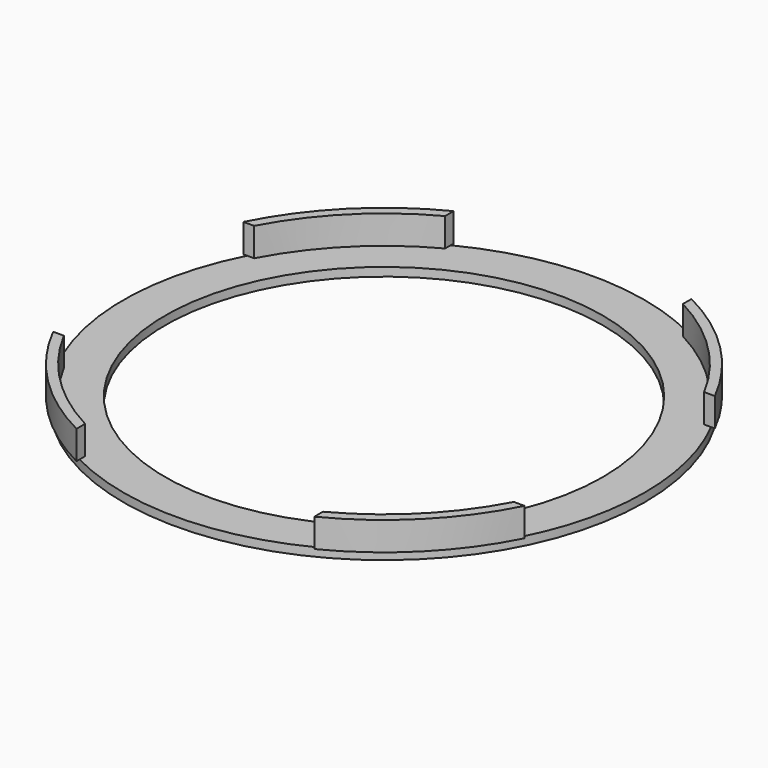
from build123d import *

# Parameters (mm, degrees)
F0_R      = 54.8
F1_DEPTH  = 1.8
F2_R      = 55.5
F3_DEPTH  = 6
F4_W      = 50
F4_H      = 125
F5_DEPTH  = 6
F6_W      = 120
F6_H      = 50
F7_DEPTH  = 6
F8_R      = 53.5
F9_DEPTH  = 6
F10_R     = 46
F11_DEPTH = 25


with BuildPart() as f1:
    # F0 (on Top) → F1 (new body)
    with BuildSketch(Plane.XY):
        Circle(F0_R)
    extrude(amount=F1_DEPTH)

    # F2 (on face) → F3 (join)
    with BuildSketch(Plane.XY.offset(1.8)):
        Circle(F2_R)
    extrude(amount=F3_DEPTH)

    # F4 (on face) → F5 (cut)
    with BuildSketch(Plane.XY.offset(7.8)):
        Rectangle(F4_W, F4_H)
    extrude(amount=-F5_DEPTH, mode=Mode.SUBTRACT)

    # F6 (on face) → F7 (cut)
    with BuildSketch(Plane.XY.offset(7.8)):
        Rectangle(F6_W, F6_H)
    extrude(amount=-F7_DEPTH, mode=Mode.SUBTRACT)

    # F8 (on face) → F9 (cut)
    with BuildSketch(Plane.XY.offset(7.8)):
        Circle(F8_R)
    extrude(amount=-F9_DEPTH, mode=Mode.SUBTRACT)

    # F10 (on face) → F11 (cut)
    with BuildSketch(Plane.XY.offset(1.8)):
        Circle(F10_R)
    extrude(amount=-F11_DEPTH, mode=Mode.SUBTRACT)


solid = f1.part
